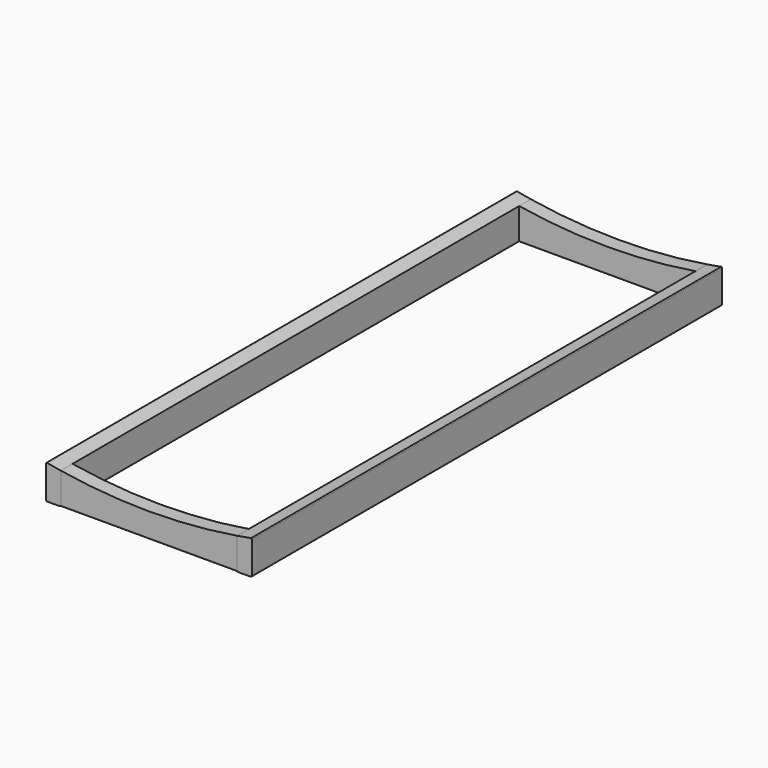
from build123d import *

# Parameters (mm, degrees)
F2_DEPTH = 88.9
F1_W     = 457.2
F1_H     = 38.1
F3_DEPTH = 88.9
F4_R     = 3.175
F4_2_R   = 3.175
F4_3_R   = 3.175
F4_4_R   = 3.175
F5_R     = 1412.875
F6_DEPTH = 1524.001


with BuildPart() as f2:
    # F1 (on Top) → F2 (new body)
    with BuildSketch(Plane.XY):
        Polygon((0, 1524), (0, 0), (38.1, 0), (38.1, 38.1), (38.1, 1485.9), (38.1, 1524), align=None)
    extrude(amount=F2_DEPTH)

    # F4#3
    f4_3_edges = [f2.edges().sort_by_distance(p)[0] for p in [
        (38.1, 762, 88.9),
        (38.1, 762, 0),
        (0, 762, 88.9),
        (0, 762, 0),
    ]]
    fillet(f4_3_edges, radius=F4_3_R)


with BuildPart() as f2b:
    # F1 (on Top) → F2, piece 2 (new body)
    with BuildSketch(Plane.XY):
        Polygon((495.3, 38.1), (495.3, 0), (533.4, 0), (533.4, 1524), (495.3, 1524), (495.3, 1485.9), align=None)
    extrude(amount=F2_DEPTH)

    # F4#2
    f4_2_edges = [f2b.edges().sort_by_distance(p)[0] for p in [
        (495.3, 762, 0),
        (533.4, 762, 0),
        (533.4, 762, 88.9),
        (495.3, 762, 88.9),
    ]]
    fillet(f4_2_edges, radius=F4_2_R)


with BuildPart() as f3:
    # F1 (on Top) → F3 (new body)
    with BuildSketch(Plane.XY):
        with Locations((266.7, 19.05)):
            Rectangle(F1_W, F1_H)
    extrude(amount=F3_DEPTH)

    # F4
    f4_edges = [f3.edges().sort_by_distance(p)[0] for p in [
        (266.7, 0, 88.9),
        (266.7, 0, 0),
        (266.7, 38.1, 88.9),
        (266.7, 38.1, 0),
    ]]
    fillet(f4_edges, radius=F4_R)


with BuildPart() as f3b:
    # F1 (on Top) → F3, piece 2 (new body)
    with BuildSketch(Plane.XY):
        with Locations((266.7, 1504.95)):
            Rectangle(F1_W, F1_H)
    extrude(amount=F3_DEPTH)

    # F4#4
    f4_4_edges = [f3b.edges().sort_by_distance(p)[0] for p in [
        (266.7, 1485.9, 0),
        (266.7, 1485.9, 88.9),
        (266.7, 1524, 88.9),
        (266.7, 1524, 0),
    ]]
    fillet(f4_4_edges, radius=F4_4_R)


with BuildPart() as f6_tool:
    # F5 (on Front) → F6 (new body, through all)
    with BuildSketch(Plane.XZ):
        with Locations((266.7, 1476.375)):
            Circle(F5_R)
    extrude(amount=-F6_DEPTH)


with BuildPart() as f2_1:
    add(f2.part)

    # F6: cut by f6_tool
    add(f6_tool.part, mode=Mode.SUBTRACT)


with BuildPart() as f2b_1:
    add(f2b.part)

    # F6: cut by f6_tool
    add(f6_tool.part, mode=Mode.SUBTRACT)


with BuildPart() as f3_1:
    add(f3.part)

    # F6: cut by f6_tool
    add(f6_tool.part, mode=Mode.SUBTRACT)


with BuildPart() as f3b_1:
    add(f3b.part)

    # F6: cut by f6_tool
    add(f6_tool.part, mode=Mode.SUBTRACT)


solid = Compound([f2_1.part, f2b_1.part, f3_1.part, f3b_1.part])
